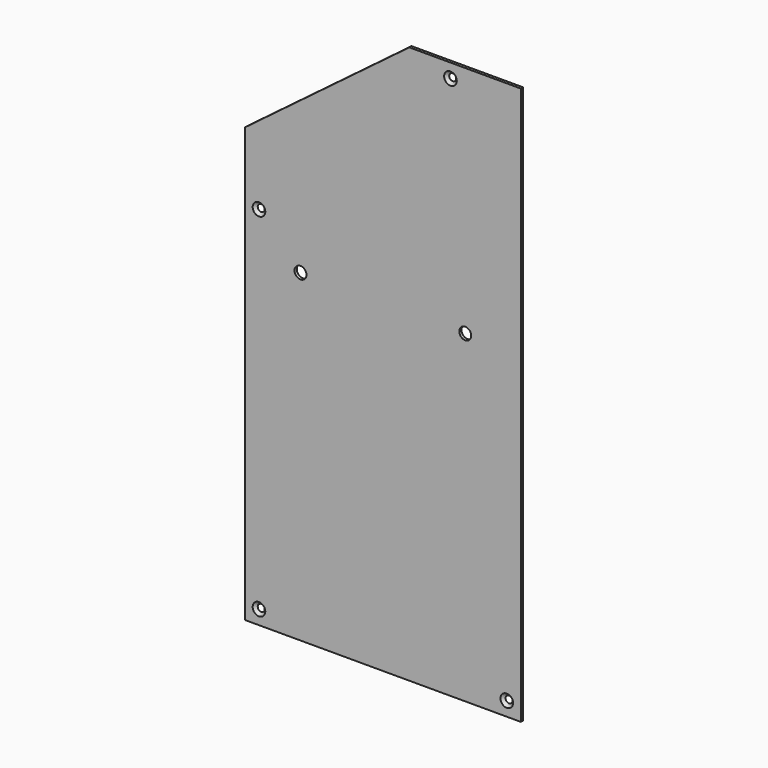
from build123d import *

# Parameters (mm, degrees)
F1_DEPTH       = 2
F2_D           = 8.5
F2_DEPTH       = 15.75
F2_TIP         = 2.5536576309
F3_D           = 4.4
F3_CSINK_D     = 8.96
F3_CSINK_ANGLE = 90


with BuildPart() as f1:
    # F0 (on Front) → F1 (new body)
    with BuildSketch(Plane.XZ):
        Polygon((-180.7669961075, 124.533562243), (-180.7669961075, -183.466437757), (15.2330038925, -183.466437757), (15.2330038925, 212.533562243), (-63.9870518049, 212.533562243), align=None)
    extrude(amount=-F1_DEPTH)

    # F2
    with Locations(Plane.XZ):
        with Locations((-141.2669961075, 46.533562243), (-24.2669961075, 46.533562243)):
            Hole(F2_D / 2, depth=F2_DEPTH)
            with Locations((0, 0, -(F2_DEPTH + F2_TIP / 2))):  # 118° drill point
                Cone(0, F2_D / 2, F2_TIP, mode=Mode.SUBTRACT)

    # F3 (through all)
    with Locations(Plane.XZ):
        with Locations((-170.7669961075, 76.533562243), (-34.7669961075, 202.533562243), (5.2330038925, -173.466437757), (-170.7669961075, -173.466437757)):
            CounterSinkHole(F3_D / 2, F3_CSINK_D / 2, counter_sink_angle=F3_CSINK_ANGLE)


solid = f1.part
